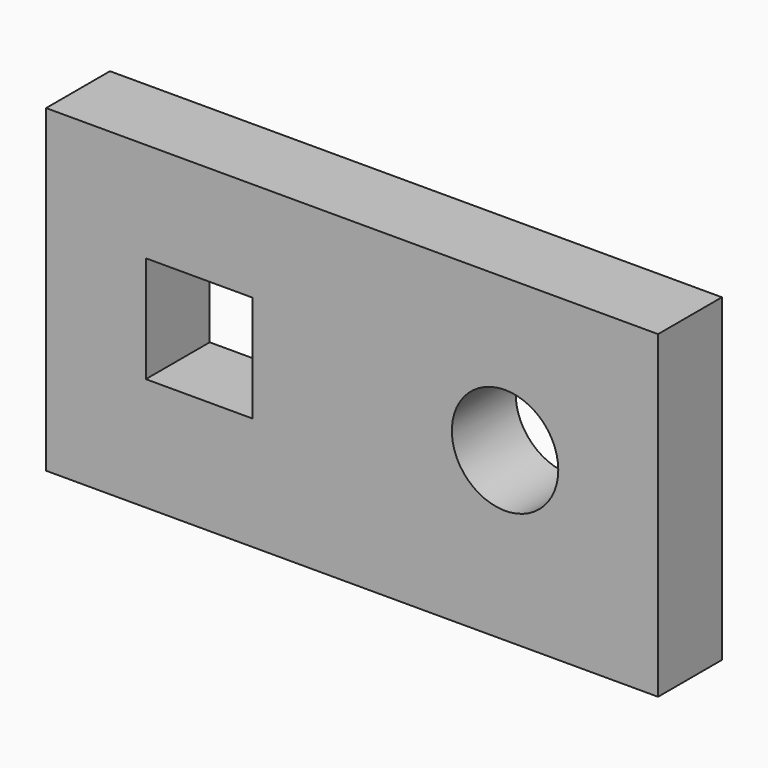
from build123d import *

# Parameters (mm, degrees)
F0_W     = 73.025
F0_H     = 76.2
F0_R     = 12.7
F0_W_2   = 25.4
F0_H_2   = 25.4
F1_DEPTH = 19.05


with BuildPart() as f1:
    # F0 (on Front) → F1 (new body)
    with BuildSketch(Plane.XZ):
        with Locations((49.614178, 32.547984)):
            Rectangle(F0_W, F0_H)
        with Locations((49.614178, 34.357734)):
            Circle(F0_R, mode=Mode.SUBTRACT)
        with Locations((-23.410822, 32.547984)):
            Rectangle(F0_W, F0_H)
        with Locations((-23.410822, 34.135484)):
            Rectangle(F0_W_2, F0_H_2, mode=Mode.SUBTRACT)
    extrude(amount=F1_DEPTH)


solid = f1.part
